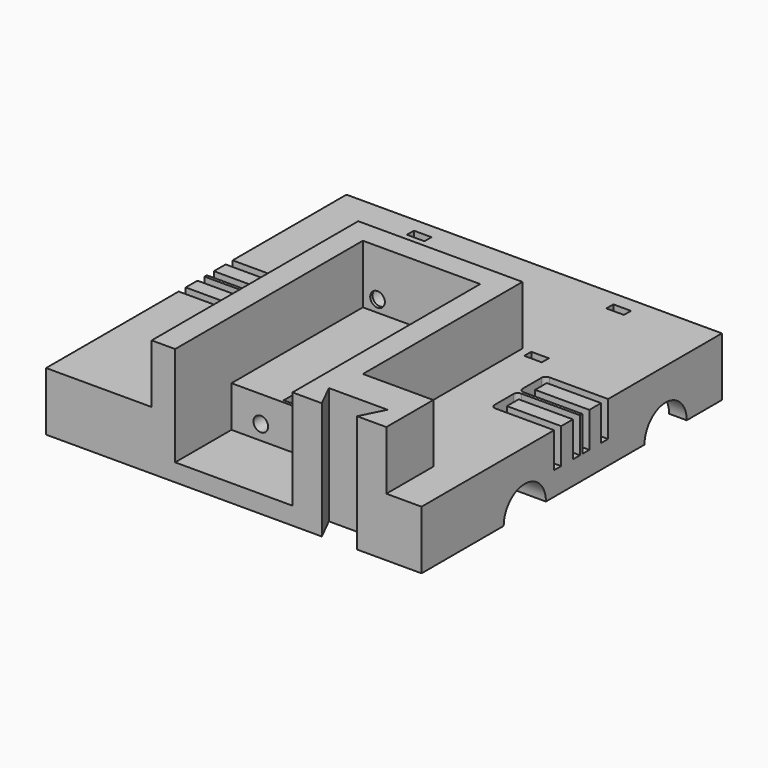
from build123d import *

# Parameters (mm, degrees)
F0_W            = 64
F0_H            = 64
F1_DEPTH        = 10
F3_DEPTH        = 64.001
F4_W            = 20
F4_H            = 34.5
F5_W            = 3
F5_H            = 26.7061145455
F5_W_2          = 10
F6_DEPTH        = 7.6
F7_R            = 4.5
F8_DEPTH        = 64.001
F10_DEPTH       = 10
F11_W           = 20
F11_H           = 40
F12_DEPTH       = 10
F13_W           = 20
F13_H           = 12
F14_DEPTH       = 7
F16_DEPTH       = 20.001
F18_D           = 2.5
F18_DEPTH       = 4
F18_TIP         = 0.7510757738
F20_D           = 2.5
F20_DEPTH       = 4
F20_CBORE_D     = 3.5
F20_CBORE_DEPTH = 3.5
F20_TIP         = 0.7510757738
F21_W           = 0.75
F21_H           = 0.25
F21_H_2         = 2.25
F21_H_3         = 0.75
F21_H_4         = 2.5
F22_DEPTH       = 6
F23_W           = 3
F23_H           = 1.5
F23_W_2         = 1.5
F24_DEPTH       = 10
F25_W           = 3
F25_H           = 16
F26_DEPTH       = 2


with BuildPart() as f1:
    # F0 (on Top) → F1 (new body)
    with BuildSketch(Plane.XY):
        with Locations((32, 32)):
            Rectangle(F0_W, F0_H)
    extrude(amount=F1_DEPTH)

    # F2 (on face) → F3 (cut, through all)
    with BuildSketch(Plane.YZ.offset(64)):
        with BuildLine():
            Line((14.5, 0), (29.5, 0))
            ThreePointArc((29.5, 0), (22, 7.5), (14.5, 0))
        make_face()
        with BuildLine():
            ThreePointArc((59.5, 0), (52, 7.5), (44.5, 0))
            Line((44.5, 0), (59.5, 0))
        make_face()
    extrude(amount=-F3_DEPTH, mode=Mode.SUBTRACT)

    # F4 (on face) + F5 (on face) → F6 (join)
    with BuildSketch(Plane(origin=(0, 0, 0), x_dir=(1, 0, 0), z_dir=(0, 0, -1))):
        with Locations((10, -17.25)):
            Rectangle(F4_W, F4_H)
        with Locations((54, -17.25)):
            Rectangle(F4_W, F4_H)
    with BuildSketch(Plane(origin=(0, 0, 0), x_dir=(1, 0, 0), z_dir=(0, 0, -1))):
        with Locations((1.5, -50.6469427273)):
            Rectangle(F5_W, F5_H)
        with Locations((32, -50.6469427273)):
            Rectangle(F5_W_2, F5_H)
        with Locations((62.5, -50.6469427273)):
            Rectangle(F5_W, F5_H)
    extrude(amount=-F6_DEPTH)

    # F7 (on face) → F8 (cut, through all)
    with BuildSketch(Plane(origin=(0, 0, 0), x_dir=(0, -1, 0), z_dir=(-1, 0, 0))):
        with Locations((-52, 0)):
            Circle(F7_R)
        with Locations((-22, 0)):
            Circle(F7_R)
    extrude(amount=-F8_DEPTH, mode=Mode.SUBTRACT)

    # F9 (on face) → F10 (join)
    with BuildSketch(Plane.XY.offset(10)):
        Polygon((18, 44), (18, 0), (58, 0), (58, 10), (46, 10), (46, 44), align=None)
    extrude(amount=F10_DEPTH)

    # F11 (on face) → F12 (cut)
    with BuildSketch(Plane.XY.offset(20)):
        with Locations((32, 20)):
            Rectangle(F11_W, F11_H)
    extrude(amount=-F12_DEPTH, mode=Mode.SUBTRACT)

    # F13 (on face) → F14 (cut)
    with BuildSketch(Plane.XY.offset(10)):
        with Locations((32, 6)):
            Rectangle(F13_W, F13_H)
    extrude(amount=-F14_DEPTH, mode=Mode.SUBTRACT)

    # F15 (on face) → F16 (cut, through all)
    with BuildSketch(Plane.XY.offset(20)):
        Polygon((47, 0), (50, 0), (50, 4), (45, 4), align=None)
        Polygon((50, 4), (50, 0), (53, 0), (55, 4), align=None)
    extrude(amount=-F16_DEPTH, mode=Mode.SUBTRACT)

    # F18
    with Locations(Plane.XZ.offset(-12)):
        with Locations((27, 5.5), (37, 5.5)):
            Hole(F18_D / 2, depth=F18_DEPTH)
            with Locations((0, 0, -(F18_DEPTH + F18_TIP / 2))):  # 118° drill point
                Cone(0, F18_D / 2, F18_TIP, mode=Mode.SUBTRACT)

    # F20
    with Locations(Plane(origin=(0, 44, 0), x_dir=(-1, 0, 0), z_dir=(0, 1, 0))):
        with Locations((-39.5, 12), (-24.5, 12)):
            CounterBoreHole(F20_D / 2, F20_CBORE_D / 2, F20_CBORE_DEPTH, depth=F20_DEPTH)
            with Locations((0, 0, -(F20_DEPTH + F20_TIP / 2))):  # 118° drill point
                Cone(0, F20_D / 2, F20_TIP, mode=Mode.SUBTRACT)

    # F21 (on face) → F22 (cut)
    with BuildSketch(Plane.XY.offset(10)):
        with Locations((9.625, 32.125)):
            Rectangle(F21_W, F21_H)
        with BuildLine():
            Line((53.25, 33), (53.25, 32))
            Line((53.25, 32), (54, 32))
            Line((54, 32), (54, 32.25))
            ThreePointArc((54, 32.25), (53.4696699141, 32.4696699141), (53.25, 33))
        make_face()
        with BuildLine():
            Line((54, 32), (53.25, 32))
            Line((53.25, 32), (53.25, 29))
            ThreePointArc((53.25, 29), (53.4696699141, 29.5303300859), (54, 29.75))
            Line((54, 29.75), (54, 32))
        make_face()
        with Locations((9.625, 30.875)):
            Rectangle(F21_W, F21_H_2)
        with BuildLine():
            Line((10, 32.25), (10, 32))
            Line((10, 32), (10.75, 32))
            Line((10.75, 32), (10.75, 33))
            ThreePointArc((10.75, 33), (10.5303300859, 32.4696699141), (10, 32.25))
        make_face()
        with BuildLine():
            Line((10.75, 32), (10, 32))
            Line((10, 32), (10, 29.75))
            ThreePointArc((10, 29.75), (10.5303300859, 29.5303300859), (10.75, 29))
            Line((10.75, 29), (10.75, 32))
        make_face()
        with BuildLine():
            Line((0, 32.25), (9.25, 32.25))
            Line((9.25, 32.25), (9.25, 33))
            ThreePointArc((9.25, 33), (9.4696699141, 33.5303300859), (10, 33.75))
            Line((10, 33.75), (0, 33.75))
            ThreePointArc((0, 33.75), (-0.75, 33), (0, 32.25))
        make_face()
        with Locations((9.625, 32.625)):
            Rectangle(F21_W, F21_H_3)
        with Locations((9.625, 29.375)):
            Rectangle(F21_W, F21_H_3)
        with BuildLine():
            Line((9.25, 29), (9.25, 29.75))
            Line((9.25, 29.75), (0, 29.75))
            ThreePointArc((0, 29.75), (-0.75, 29), (0, 28.25))
            Line((0, 28.25), (10, 28.25))
            ThreePointArc((10, 28.25), (9.4696699141, 28.4696699141), (9.25, 29))
        make_face()
        with BuildLine():
            Line((10, 33), (10, 32.25))
            ThreePointArc((10, 32.25), (10.5303300859, 32.4696699141), (10.75, 33))
            ThreePointArc((10.75, 33), (10.5303300859, 33.5303300859), (10, 33.75))
            ThreePointArc((10, 33.75), (9.4696699141, 33.5303300859), (9.25, 33))
            Line((9.25, 33), (10, 33))
        make_face()
        with BuildLine():
            ThreePointArc((10.75, 29), (10.5303300859, 29.5303300859), (10, 29.75))
            Line((10, 29.75), (10, 29))
            Line((10, 29), (9.25, 29))
            ThreePointArc((9.25, 29), (9.4696699141, 28.4696699141), (10, 28.25))
            ThreePointArc((10, 28.25), (10.5303300859, 28.4696699141), (10.75, 29))
        make_face()
        with Locations((54.375, 32.125)):
            Rectangle(F21_W, F21_H)
        with Locations((54.375, 30.875)):
            Rectangle(F21_W, F21_H_2)
        with BuildLine():
            ThreePointArc((54, 33.75), (53.4696699141, 33.5303300859), (53.25, 33))
            ThreePointArc((53.25, 33), (53.4696699141, 32.4696699141), (54, 32.25))
            Line((54, 32.25), (54, 33))
            Line((54, 33), (54.75, 33))
            ThreePointArc((54.75, 33), (54.5303300859, 33.5303300859), (54, 33.75))
        make_face()
        with BuildLine():
            ThreePointArc((54, 29.75), (53.4696699141, 29.5303300859), (53.25, 29))
            ThreePointArc((53.25, 29), (53.4696699141, 28.4696699141), (54, 28.25))
            ThreePointArc((54, 28.25), (54.5303300859, 28.4696699141), (54.75, 29))
            Line((54.75, 29), (54, 29))
            Line((54, 29), (54, 29.75))
        make_face()
        with Locations((54.375, 32.625)):
            Rectangle(F21_W, F21_H_3)
        with Locations((54.375, 29.375)):
            Rectangle(F21_W, F21_H_3)
        with BuildLine():
            Line((64, 33.75), (54, 33.75))
            ThreePointArc((54, 33.75), (54.5303300859, 33.5303300859), (54.75, 33))
            Line((54.75, 33), (54.75, 32.25))
            Line((54.75, 32.25), (64, 32.25))
            ThreePointArc((64, 32.25), (64.75, 33), (64, 33.75))
        make_face()
        with BuildLine():
            ThreePointArc((54.75, 29), (54.5303300859, 28.4696699141), (54, 28.25))
            Line((54, 28.25), (64, 28.25))
            ThreePointArc((64, 28.25), (64.75, 29), (64, 29.75))
            Line((64, 29.75), (54.75, 29.75))
            Line((54.75, 29.75), (54.75, 29))
        make_face()
        with BuildLine():
            ThreePointArc((10, 39.75), (9.4696699141, 39.5303300859), (9.25, 39))
            Line((9.25, 39), (10, 39))
            Line((10, 39), (10, 38.25))
            ThreePointArc((10, 38.25), (10.5303300859, 38.4696699141), (10.75, 39))
            ThreePointArc((10.75, 39), (10.5303300859, 39.5303300859), (10, 39.75))
        make_face()
        with BuildLine():
            Line((9.25, 38.25), (9.25, 39))
            ThreePointArc((9.25, 39), (9.4696699141, 39.5303300859), (10, 39.75))
            Line((10, 39.75), (0, 39.75))
            ThreePointArc((0, 39.75), (-0.75, 39), (0, 38.25))
            Line((0, 38.25), (9.25, 38.25))
        make_face()
        with Locations((9.625, 38.625)):
            Rectangle(F21_W, F21_H_3)
        with Locations((9.625, 37)):
            Rectangle(F21_W, F21_H_4)
        with BuildLine():
            ThreePointArc((10.75, 39), (10.5303300859, 38.4696699141), (10, 38.25))
            Line((10, 38.25), (10, 35.75))
            ThreePointArc((10, 35.75), (10.5303300859, 35.5303300859), (10.75, 35))
            Line((10.75, 35), (10.75, 39))
        make_face()
        with BuildLine():
            Line((9.25, 35), (9.25, 35.75))
            Line((9.25, 35.75), (0, 35.75))
            ThreePointArc((0, 35.75), (-0.75, 35), (0, 34.25))
            Line((0, 34.25), (10, 34.25))
            ThreePointArc((10, 34.25), (9.4696699141, 34.4696699141), (9.25, 35))
        make_face()
        with Locations((9.625, 35.375)):
            Rectangle(F21_W, F21_H_3)
        with BuildLine():
            ThreePointArc((10.75, 35), (10.5303300859, 35.5303300859), (10, 35.75))
            Line((10, 35.75), (10, 35))
            Line((10, 35), (9.25, 35))
            ThreePointArc((9.25, 35), (9.4696699141, 34.4696699141), (10, 34.25))
            ThreePointArc((10, 34.25), (10.5303300859, 34.4696699141), (10.75, 35))
        make_face()
        with Locations((54.375, 35.375)):
            Rectangle(F21_W, F21_H_3)
        with BuildLine():
            Line((54.75, 35), (54, 35))
            Line((54, 35), (54, 35.75))
            ThreePointArc((54, 35.75), (53.4696699141, 35.5303300859), (53.25, 35))
            ThreePointArc((53.25, 35), (53.4696699141, 34.4696699141), (54, 34.25))
            ThreePointArc((54, 34.25), (54.5303300859, 34.4696699141), (54.75, 35))
        make_face()
        with BuildLine():
            Line((54.75, 35.75), (54.75, 35))
            ThreePointArc((54.75, 35), (54.5303300859, 34.4696699141), (54, 34.25))
            Line((54, 34.25), (64, 34.25))
            ThreePointArc((64, 34.25), (64.75, 35), (64, 35.75))
            Line((64, 35.75), (54.75, 35.75))
        make_face()
        with BuildLine():
            ThreePointArc((53.25, 35), (53.4696699141, 35.5303300859), (54, 35.75))
            Line((54, 35.75), (54, 38.25))
            ThreePointArc((54, 38.25), (53.4696699141, 38.4696699141), (53.25, 39))
            Line((53.25, 39), (53.25, 35))
        make_face()
        with Locations((54.375, 37)):
            Rectangle(F21_W, F21_H_4)
        with BuildLine():
            ThreePointArc((53.25, 39), (53.4696699141, 38.4696699141), (54, 38.25))
            Line((54, 38.25), (54, 39))
            Line((54, 39), (54.75, 39))
            ThreePointArc((54.75, 39), (54.5303300859, 39.5303300859), (54, 39.75))
            ThreePointArc((54, 39.75), (53.4696699141, 39.5303300859), (53.25, 39))
        make_face()
        with Locations((54.375, 38.625)):
            Rectangle(F21_W, F21_H_3)
        with BuildLine():
            Line((54.75, 39), (54.75, 38.25))
            Line((54.75, 38.25), (64, 38.25))
            ThreePointArc((64, 38.25), (64.75, 39), (64, 39.75))
            Line((64, 39.75), (54, 39.75))
            ThreePointArc((54, 39.75), (54.5303300859, 39.5303300859), (54.75, 39))
        make_face()
    extrude(amount=-F22_DEPTH, mode=Mode.SUBTRACT)

    # F23 (on face) → F24 (cut, through all)
    with BuildSketch(Plane(origin=(0, 0, 0), x_dir=(1, 0, 0), z_dir=(0, 0, -1))):
        with Locations((49, -43.25)):
            Rectangle(F23_W, F23_H)
        with Locations((49, -60.75)):
            Rectangle(F23_W, F23_H)
        with Locations((14.25, -60.75)):
            Rectangle(F23_W_2, F23_H)
        with Locations((15.75, -60.75)):
            Rectangle(F23_W_2, F23_H)
        with Locations((15, -43.25)):
            Rectangle(F23_W, F23_H)
        with Locations((32.75, -30.75)):
            Rectangle(F23_W_2, F23_H)
        with Locations((31.25, -30.75)):
            Rectangle(F23_W_2, F23_H)
        with Locations((32, -13.25)):
            Rectangle(F23_W, F23_H)
    extrude(amount=-F24_DEPTH, mode=Mode.SUBTRACT)

    # F25 (on face) → F26 (cut)
    with BuildSketch(Plane.XY.offset(10)):
        with Locations((32, 22)):
            Rectangle(F25_W, F25_H)
    extrude(amount=-F26_DEPTH, mode=Mode.SUBTRACT)


solid = f1.part
